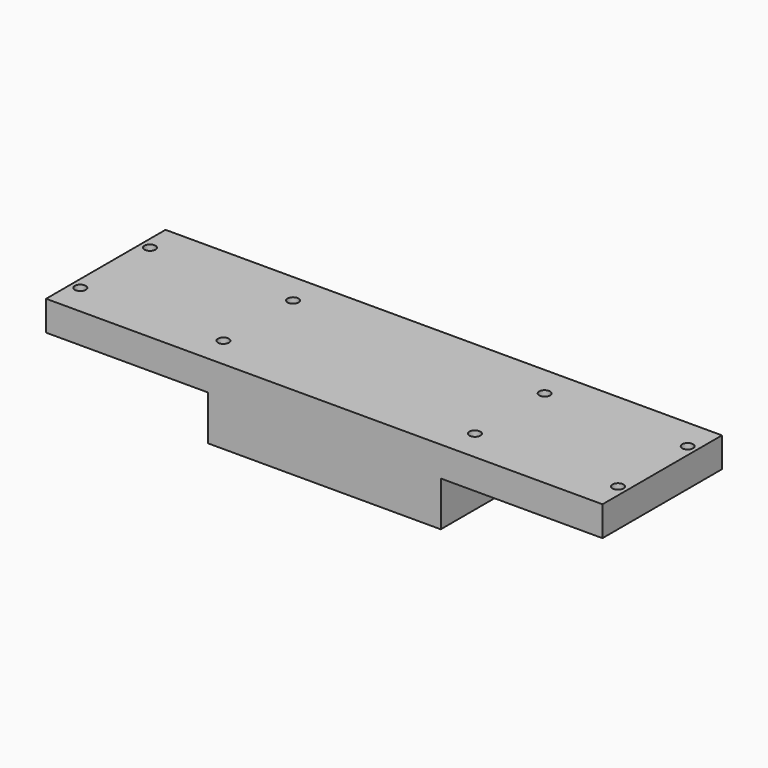
from build123d import *

# Parameters (mm, degrees)
F0_W     = 283.9974
F0_H     = 76.2
F1_DEPTH = 38.1
F4_R     = 2.794
F3_R     = 2.794
F5_DEPTH = 38.101
F2_W     = 82.55
F2_H     = 76.2
F6_DEPTH = 22.86


with BuildPart() as f1:
    # F0 (on Top) → F1 (new body)
    with BuildSketch(Plane.XY):
        with Locations((141.9987, -38.1)):
            Rectangle(F0_W, F0_H)
    extrude(amount=-F1_DEPTH)

    # F4 (on face) + F3 (on face) → F5 (cut, through all)
    with BuildSketch(Plane(origin=(0, 0, -38.1), x_dir=(1, 0, 0), z_dir=(0, 0, -1))):
        with Locations((279.2222, 15.875)):
            Circle(F4_R)
        with Locations((279.2222, 60.325)):
            Circle(F4_R)
        with Locations((206.1972, 60.325)):
            Circle(F4_R)
        with Locations((206.1972, 15.875)):
            Circle(F4_R)
    with BuildSketch(Plane(origin=(0, 0, -38.1), x_dir=(1, 0, 0), z_dir=(0, 0, -1))):
        with Locations((77.8002, 60.325)):
            Circle(F3_R)
        with Locations((77.8002, 15.875)):
            Circle(F3_R)
        with Locations((4.7752, 15.875)):
            Circle(F3_R)
        with Locations((4.7752, 60.325)):
            Circle(F3_R)
    extrude(amount=-F5_DEPTH, mode=Mode.SUBTRACT)

    # F2 (on face) → F6 (cut)
    with BuildSketch(Plane(origin=(0, 0, -38.1), x_dir=(1, 0, 0), z_dir=(0, 0, -1))):
        with Locations((41.275, 38.1)):
            Rectangle(F2_W, F2_H)
        with Locations((242.7224, 38.1)):
            Rectangle(F2_W, F2_H)
    extrude(amount=-F6_DEPTH, mode=Mode.SUBTRACT)


solid = f1.part
